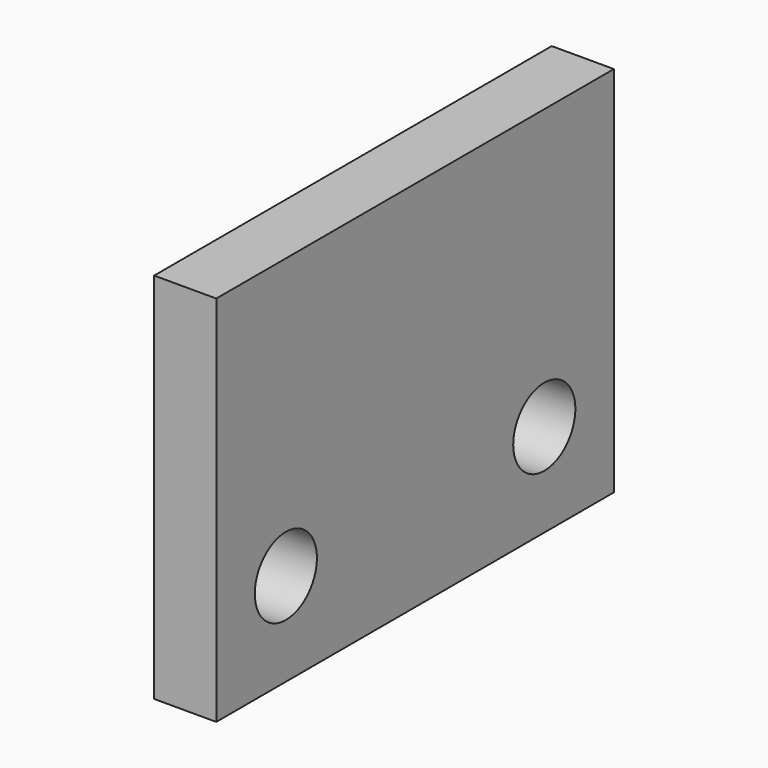
from build123d import *

# Parameters (mm, degrees)
F0_W     = 25.4
F0_H     = 19.05
F1_DEPTH = 3.175
F3_DEPTH = 3.176


with BuildPart() as f1:
    # F0 (on Right) → F1 (new body)
    with BuildSketch(Plane.YZ):
        Rectangle(F0_W, F0_H)
    extrude(amount=-F1_DEPTH)

    # F2 (on face) → F3 (cut, through all)
    with BuildSketch(Plane.YZ):
        with BuildLine():
            ThreePointArc((-6.270625, -4.7625), (-8.255, -2.778125), (-10.239375, -4.7625))
            Line((-10.239375, -4.7625), (-6.270625, -4.7625))
        make_face()
        with BuildLine():
            ThreePointArc((10.239375, -4.7625), (8.255, -2.778125), (6.270625, -4.7625))
            Line((6.270625, -4.7625), (10.239375, -4.7625))
        make_face()
        with BuildLine():
            Line((10.239375, -4.7625), (6.270625, -4.7625))
            ThreePointArc((6.270625, -4.7625), (8.255, -6.746875), (10.239375, -4.7625))
        make_face()
        with BuildLine():
            Line((-6.270625, -4.7625), (-10.239375, -4.7625))
            ThreePointArc((-10.239375, -4.7625), (-8.255, -6.746875), (-6.270625, -4.7625))
        make_face()
    extrude(amount=-F3_DEPTH, mode=Mode.SUBTRACT)


solid = f1.part
